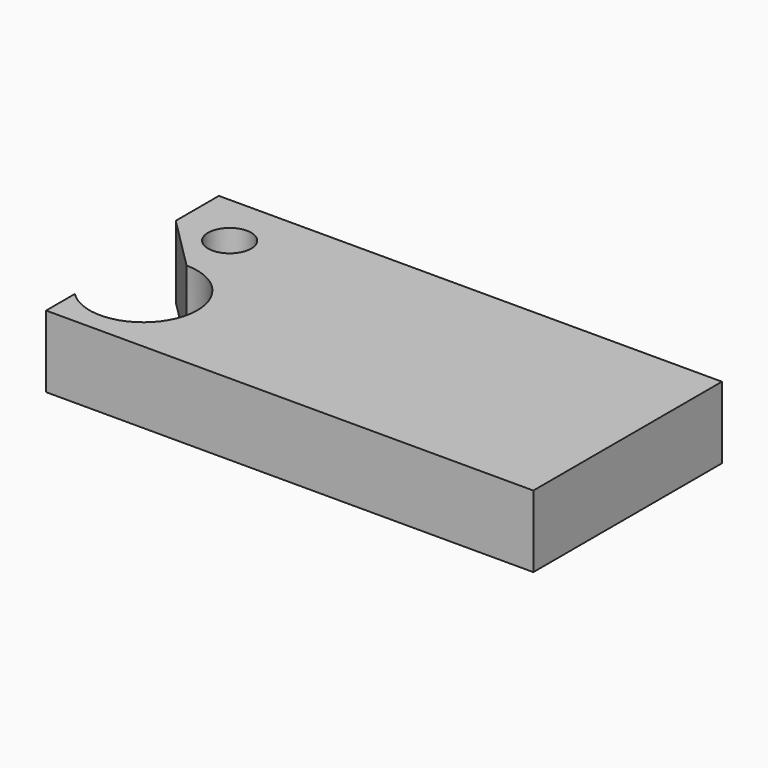
from build123d import *

# Parameters (mm, degrees)
F0_R     = 1.5
F1_DEPTH = 5
F2_W     = 15
F2_H     = 15
F3_DEPTH = 25
F4_DEPTH = 20


with BuildPart() as f1:
    # F0 (on Top) → F1 (new body)
    with BuildSketch(Plane.XY):
        Polygon((7.5, -7.5), (7.5, 15), (-7.5, 15), (-7.5, 0), (-7.5, -3.75), (-3.75, -7.5), (0, -7.5), align=None)
        with Locations((-3.75, -3.75)):
            Circle(F0_R, mode=Mode.SUBTRACT)
        with BuildLine():
            Line((7.5, -16.4016504294), (7.5, -7.5))
            Line((7.5, -7.5), (0, -7.5))
            Line((0, -7.5), (-3.75, -7.5))
            ThreePointArc((-3.75, -7.5), (-0.2854517531, -12.6850628714), (-6.4016504294, -13.9016504294))
            Line((-6.4016504294, -13.9016504294), (-6.4016504294, -16.4016504294))
            Line((-6.4016504294, -16.4016504294), (0, -16.4016504294))
            Line((0, -16.4016504294), (7.5, -16.4016504294))
        make_face()
    extrude(amount=F1_DEPTH)

    # F2 (on face) → F3 (cut)
    with BuildSketch(Plane.XY.offset(5)):
        with Locations((0, 7.5)):
            Rectangle(F2_W, F2_H)
    extrude(amount=-F3_DEPTH, mode=Mode.SUBTRACT)

    # F4 (add): a face of the model
    f4_faces = [f1.faces().sort_by_distance(p)[0] for p in [
        (7.5, -8.2008252147, 2.5),
    ]]
    extrude(f4_faces, amount=F4_DEPTH)


solid = f1.part
